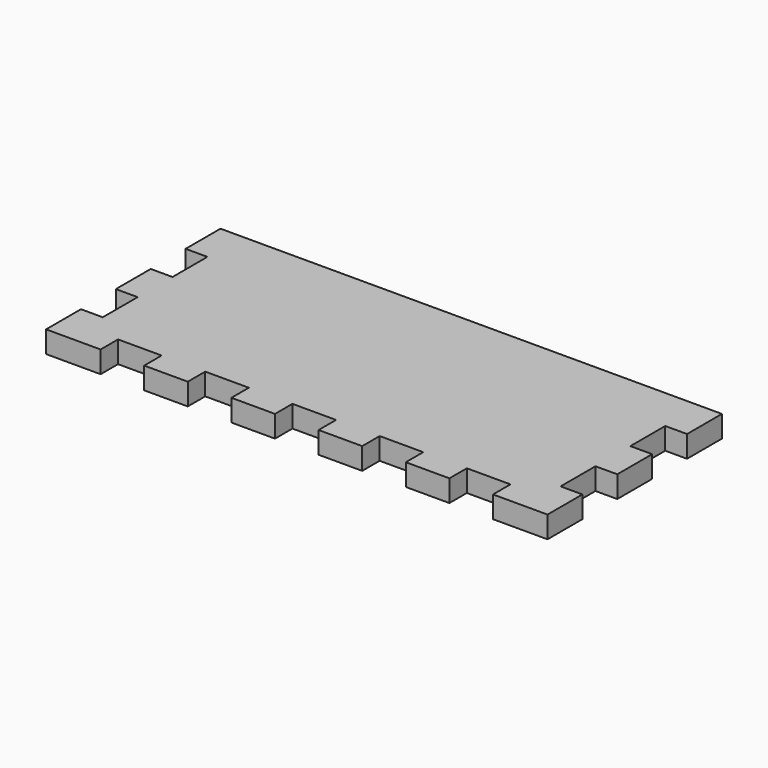
from build123d import *

# Parameters (mm, degrees)
F1_DEPTH = 6.35


with BuildPart() as f1:
    # F0 (on Top) → F1 (new body)
    with BuildSketch(Plane.XY):
        Polygon((146.05, 0), (0, 0), (0, -12.7), (6.35, -12.7), (6.35, -25.4), (0, -25.4), (0, -38.1), (6.35, -38.1), (6.35, -50.8), (0, -50.8), (0, -63.5), (15.875, -63.5), (15.875, -57.15), (28.575, -57.15), (28.575, -63.5), (41.275, -63.5), (41.275, -57.15), (53.975, -57.15), (53.975, -63.5), (66.675, -63.5), (66.675, -57.15), (79.375, -57.15), (79.375, -63.5), (92.075, -63.5), (92.075, -57.15), (104.775, -57.15), (104.775, -63.5), (117.475, -63.5), (117.475, -57.15), (130.175, -57.15), (130.175, -63.5), (146.05, -63.5), (146.05, -50.8), (139.7, -50.8), (139.7, -38.1), (146.05, -38.1), (146.05, -25.4), (139.7, -25.4), (139.7, -12.7), (146.05, -12.7), align=None)
    extrude(amount=F1_DEPTH)


solid = f1.part
